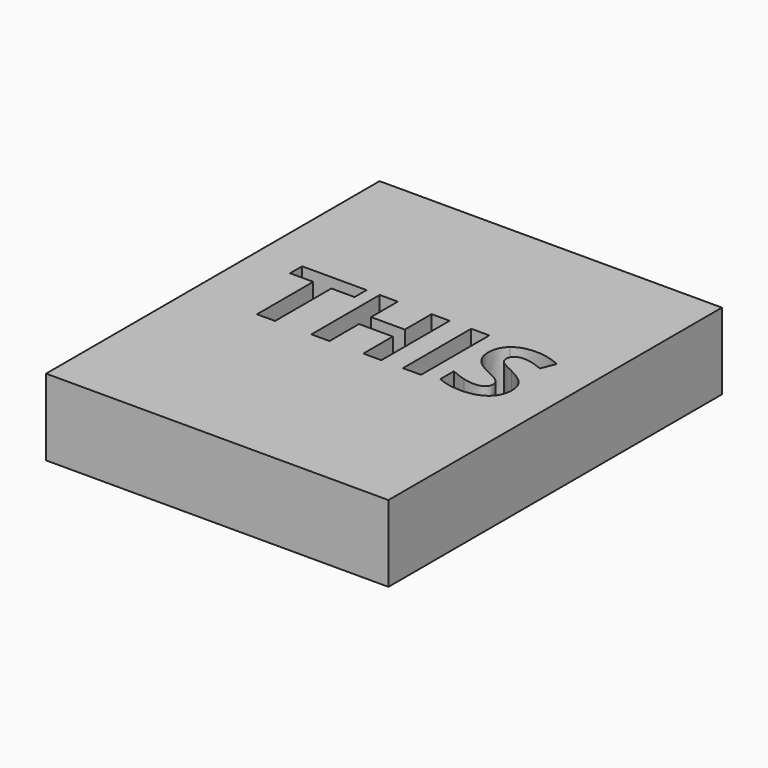
from build123d import *

# Parameters (mm, degrees)
F0_W     = 113.7968078256
F0_H     = 138.5442316532
F0_W_2   = 6.0173892501
F0_H_2   = 28.373014947
F1_DEPTH = 25.4


with BuildPart() as f1:
    # F0 (on Top) → F1 (new body)
    with BuildSketch(Plane.XY):
        Rectangle(F0_W, F0_H)
        Polygon((-28.96920121, 14.3365136363), (-28.96920121, -9.031325113), (-34.9865904601, -9.031325113), (-34.9865904601, 14.3365136363), (-42.6930714295, 14.3365136363), (-42.6930714295, 19.341689834), (-21.2689301366, 19.341689834), (-21.2689301366, 14.3365136363), align=None, mode=Mode.SUBTRACT)
        Polygon((6.3464774951, 19.341689834), (6.3464774951, -9.031325113), (0.3477179331, -9.031325113), (0.3477179331, 3.2145898521), (-10.8859839796, 3.2145898521), (-10.8859839796, -9.031325113), (-16.9033732297, -9.031325113), (-16.9033732297, 19.341689834), (-10.8859839796, 19.341689834), (-10.8859839796, 8.2197660498), (0.3477179331, 8.2197660498), (0.3477179331, 19.341689834), align=None, mode=Mode.SUBTRACT)
        with Locations((16.5151822392, 5.1551823605)):
            Rectangle(F0_W_2, F0_H_2, mode=Mode.SUBTRACT)
        with BuildLine():
            add(Edge.make_bspline(
                [(41.9384965735, 3.5343994975), (43.4133468799, 1.6248564692), (43.4133468799, -1.1509670549)],
                knots=[0, 0, 0, 1, 1, 1], degree=2))
            add(Edge.make_bspline(
                [(43.4133468799, -1.1509670549), (43.4133468799, -4.9948926955), (40.6468381999, -7.2087206291)],
                knots=[0, 0, 0, 1, 1, 1], degree=2))
            add(Edge.make_bspline(
                [(40.6468381999, -7.2087206291), (37.8803295199, -9.4225485627), (32.9558819705, -9.4225485627)],
                knots=[0, 0, 0, 1, 1, 1], degree=2))
            add(Edge.make_bspline(
                [(32.9558819705, -9.4225485627), (28.4102380788, -9.4225485627), (24.9202765117, -7.7086172593)],
                knots=[0, 0, 0, 1, 1, 1], degree=2))
            Line((24.9202765117, -7.7086172593), (24.9202765117, -2.1197108351))
            add(Edge.make_bspline(
                [(24.9202765117, -2.1197108351), (27.7892484761, -3.4051593126), (29.7795201528, -3.9267905789)],
                knots=[0, 0, 0, 1, 1, 1], degree=2))
            add(Edge.make_bspline(
                [(29.7795201528, -3.9267905789), (31.7697918294, -4.4484218452), (33.4216241726, -4.4484218452)],
                knots=[0, 0, 0, 1, 1, 1], degree=2))
            add(Edge.make_bspline(
                [(33.4216241726, -4.4484218452), (35.3963711091, -4.4484218452), (36.4551583817, -3.6939194779)],
                knots=[0, 0, 0, 1, 1, 1], degree=2))
            add(Edge.make_bspline(
                [(36.4551583817, -3.6939194779), (37.5139456543, -2.9394171106), (37.5139456543, -1.4428321681)],
                knots=[0, 0, 0, 1, 1, 1], degree=2))
            add(Edge.make_bspline(
                [(37.5139456543, -1.4428321681), (37.5139456543, -0.6107061005), (37.0482034523, 0.0413329823)],
                knots=[0, 0, 0, 1, 1, 1], degree=2))
            add(Edge.make_bspline(
                [(37.0482034523, 0.0413329823), (36.5824612503, 0.6933720651), (35.6789213783, 1.2926270317)],
                knots=[0, 0, 0, 1, 1, 1], degree=2))
            add(Edge.make_bspline(
                [(35.6789213783, 1.2926270317), (34.7753815064, 1.8918819983), (31.9995579824, 3.2145898521)],
                knots=[0, 0, 0, 1, 1, 1], degree=2))
            add(Edge.make_bspline(
                [(31.9995579824, 3.2145898521), (29.4038214431, 4.4379393694), (28.1028482255, 5.5619305503)],
                knots=[0, 0, 0, 1, 1, 1], degree=2))
            add(Edge.make_bspline(
                [(28.1028482255, 5.5619305503), (26.8018750079, 6.6859217311), (26.0256380045, 8.1825066736)],
                knots=[0, 0, 0, 1, 1, 1], degree=2))
            add(Edge.make_bspline(
                [(26.0256380045, 8.1825066736), (25.2494010011, 9.6790916161), (25.2494010011, 11.6724682408)],
                knots=[0, 0, 0, 1, 1, 1], degree=2))
            add(Edge.make_bspline(
                [(25.2494010011, 11.6724682408), (25.2494010011, 15.4418751291), (27.8016682682, 17.5936041024)],
                knots=[0, 0, 0, 1, 1, 1], degree=2))
            add(Edge.make_bspline(
                [(27.8016682682, 17.5936041024), (30.3539355353, 19.7453330758), (34.8561101548, 19.7453330758)],
                knots=[0, 0, 0, 1, 1, 1], degree=2))
            add(Edge.make_bspline(
                [(34.8561101548, 19.7453330758), (37.0668331404, 19.7453330758), (39.0757345051, 19.2237018095)],
                knots=[0, 0, 0, 1, 1, 1], degree=2))
            add(Edge.make_bspline(
                [(39.0757345051, 19.2237018095), (41.0846358698, 18.7020705432), (43.2767291673, 17.7519564511)],
                knots=[0, 0, 0, 1, 1, 1], degree=2))
            Line((43.2767291673, 17.7519564511), (41.3392416069, 13.0696948468))
            add(Edge.make_bspline(
                [(41.3392416069, 13.0696948468), (39.066419661, 14.0011792509), (37.5822545106, 14.3706680645)],
                knots=[0, 0, 0, 1, 1, 1], degree=2))
            add(Edge.make_bspline(
                [(37.5822545106, 14.3706680645), (36.0980893602, 14.7401568781), (34.6636033779, 14.7401568781)],
                knots=[0, 0, 0, 1, 1, 1], degree=2))
            add(Edge.make_bspline(
                [(34.6636033779, 14.7401568781), (32.9558819705, 14.7401568781), (32.0430272546, 13.9452901866)],
                knots=[0, 0, 0, 1, 1, 1], degree=2))
            add(Edge.make_bspline(
                [(32.0430272546, 13.9452901866), (31.1301725386, 13.1504234952), (31.1301725386, 11.8711849136)],
                knots=[0, 0, 0, 1, 1, 1], degree=2))
            add(Edge.make_bspline(
                [(31.1301725386, 11.8711849136), (31.1301725386, 11.0763182222), (31.4996613522, 10.4832731516)],
                knots=[0, 0, 0, 1, 1, 1], degree=2))
            add(Edge.make_bspline(
                [(31.4996613522, 10.4832731516), (31.8691501658, 9.890228081), (32.6733317013, 9.3375473346)],
                knots=[0, 0, 0, 1, 1, 1], degree=2))
            add(Edge.make_bspline(
                [(32.6733317013, 9.3375473346), (33.4775132368, 8.7848665882), (36.4831029138, 7.350380606)],
                knots=[0, 0, 0, 1, 1, 1], degree=2))
            add(Edge.make_bspline(
                [(36.4831029138, 7.350380606), (40.4636462671, 5.4439425257), (41.9384965735, 3.5343994975)],
                knots=[0, 0, 0, 1, 1, 1], degree=2))
        make_face(mode=Mode.SUBTRACT)
    extrude(amount=F1_DEPTH)


solid = f1.part
